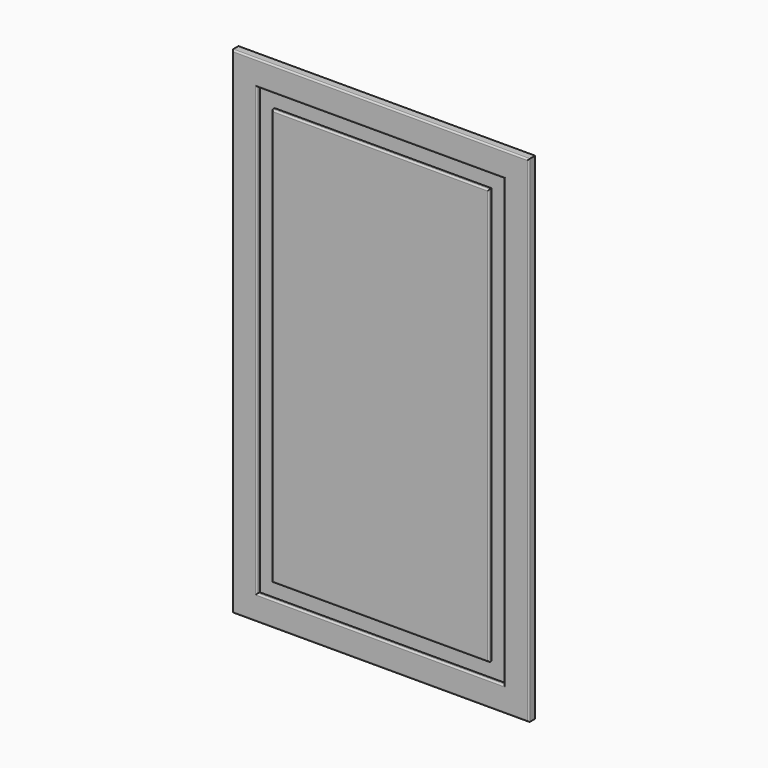
from build123d import *

# Parameters (mm, degrees)
F0_W      = 44.656470418
F0_H      = 33.8078811765
F1_DEPTH  = 16
F2_DEPTH  = 796
F3_DEPTH  = 196
F4_W      = 68.9578056335
F4_H      = 493.6993122101
F5_DEPTH  = 7
F6_DEPTH  = 9.7
F7_DEPTH  = 99.33
F8_DEPTH  = 99.33
F9_DEPTH  = 17.34
F10_DEPTH = 102.97
F11_W     = 35.2807044983
F11_H     = 492.0964837074
F12_DEPTH = 7
F13_DEPTH = 37.27
F14_DEPTH = 6.58
F15_DEPTH = 106.63
F16_DEPTH = 5.87
F17_DEPTH = 200
F18_DEPTH = 200
F19_DEPTH = 200
F20_DEPTH = 200
F21_DEPTH = 200
F22_DEPTH = 200
F23_DEPTH = 200
F24_DEPTH = 200
F25_DEPTH = 200
F26_R     = 3


with BuildPart() as f1:
    # F0 (on Front) → F1 (new body)
    with BuildSketch(Plane.XZ):
        with Locations((22.328235209, 16.9039405882)):
            Rectangle(F0_W, F0_H)
    extrude(amount=F1_DEPTH)

    # F2 (add): a face of the model
    f2_faces = [f1.faces().sort_by_distance(p)[0] for p in [
        (22.328235209, -8, 0),
    ]]
    extrude(f2_faces, amount=-F2_DEPTH)

    # F3 (add): a face of the model
    f3_faces = [f1.faces().sort_by_distance(p)[0] for p in [
        (0, -8, 398),
    ]]
    extrude(f3_faces, amount=-F3_DEPTH)

    # F4 (on face) → F5 (cut)
    with BuildSketch(Plane.XZ.offset(16)):
        with Locations((94.1769480705, 399.8196721077)):
            Rectangle(F4_W, F4_H)
    extrude(amount=-F5_DEPTH, mode=Mode.SUBTRACT)

    # F6 (cut): a face of the model
    f6_faces = [f1.faces().sort_by_distance(p)[0] for p in [
        (59.6980452538, -12.5, 399.8196721077),
    ]]
    extrude(f6_faces, amount=-F6_DEPTH, mode=Mode.SUBTRACT)

    # F7 (add): a face of the model
    f7_faces = [f1.faces().sort_by_distance(p)[0] for p in [
        (89.3269480705, -12.5, 646.6693282127),
    ]]
    extrude(f7_faces, amount=-F7_DEPTH)

    # F8 (cut): a face of the model
    f8_faces = [f1.faces().sort_by_distance(p)[0] for p in [
        (89.3269480705, -12.5, 646.6693282127),
    ]]
    extrude(f8_faces, amount=-F8_DEPTH, mode=Mode.SUBTRACT)

    # F9 (cut): a face of the model
    f9_faces = [f1.faces().sort_by_distance(p)[0] for p in [
        (128.6558508873, -12.5, 449.4846721077),
    ]]
    extrude(f9_faces, amount=-F9_DEPTH, mode=Mode.SUBTRACT)

    # F10 (cut): a face of the model
    f10_faces = [f1.faces().sort_by_distance(p)[0] for p in [
        (97.9969480705, -12.5, 152.9700160027),
    ]]
    extrude(f10_faces, amount=-F10_DEPTH, mode=Mode.SUBTRACT)

    # F11 (on face) → F12 (join)
    with BuildSketch(Plane.XZ.offset(9)):
        with Locations((91.7714834213, 432.6795041561)):
            Rectangle(F11_W, F11_H)
    extrude(amount=F12_DEPTH)

    # F13 (add): a face of the model
    f13_faces = [f1.faces().sort_by_distance(p)[0] for p in [
        (91.7714834213, -12.5, 678.7277460098),
    ]]
    extrude(f13_faces, amount=F13_DEPTH)

    # F14 (add): a face of the model
    f14_faces = [f1.faces().sort_by_distance(p)[0] for p in [
        (109.4118356705, -12.5, 451.3145041561),
    ]]
    extrude(f14_faces, amount=F14_DEPTH)

    # F15 (add): a face of the model
    f15_faces = [f1.faces().sort_by_distance(p)[0] for p in [
        (95.0614834213, -12.5, 186.6312623024),
    ]]
    extrude(f15_faces, amount=F15_DEPTH)

    # F16 (cut): a face of the model
    f16_faces = [f1.faces().sort_by_distance(p)[0] for p in [
        (74.1311311722, -12.5, 397.9995041561),
    ]]
    extrude(f16_faces, amount=-F16_DEPTH, mode=Mode.SUBTRACT)

    # F17 (add): a face of the model
    f17_faces = [f1.faces().sort_by_distance(p)[0] for p in [
        (196, -8, 398),
    ]]
    extrude(f17_faces, amount=F17_DEPTH)

    # F18 (cut): a face of the model
    f18_faces = [f1.faces().sort_by_distance(p)[0] for p in [
        (145.9958508873, -12.5, 397.9996721077),
    ]]
    extrude(f18_faces, amount=-F18_DEPTH, mode=Mode.SUBTRACT)

    # F19 (add): a face of the model
    f19_faces = [f1.faces().sort_by_distance(p)[0] for p in [
        (115.9918356705, -12.5, 397.9995041561),
    ]]
    extrude(f19_faces, amount=F19_DEPTH)

    # F20 (add): a face of the model
    f20_faces = [f1.faces().sort_by_distance(p)[0] for p in [
        (396, -8, 398),
    ]]
    extrude(f20_faces, amount=F20_DEPTH)

    # F21 (cut): a face of the model
    f21_faces = [f1.faces().sort_by_distance(p)[0] for p in [
        (345.9958508873, -12.5, 397.9996721077),
    ]]
    extrude(f21_faces, amount=-F21_DEPTH, mode=Mode.SUBTRACT)

    # F22 (add): a face of the model
    f22_faces = [f1.faces().sort_by_distance(p)[0] for p in [
        (315.9918356705, -12.5, 397.9995041561),
    ]]
    extrude(f22_faces, amount=F22_DEPTH)

    # F23 (add): a face of the model
    f23_faces = [f1.faces().sort_by_distance(p)[0] for p in [
        (298, -8, 796),
    ]]
    extrude(f23_faces, amount=F23_DEPTH)

    # F24 (cut): a face of the model
    f24_faces = [f1.faces().sort_by_distance(p)[0] for p in [
        (297.9969480705, -12.5, 745.9993282127),
    ]]
    extrude(f24_faces, amount=-F24_DEPTH, mode=Mode.SUBTRACT)

    # F25 (add): a face of the model
    f25_faces = [f1.faces().sort_by_distance(p)[0] for p in [
        (297.9964834213, -12.5, 715.9977460098),
    ]]
    extrude(f25_faces, amount=F25_DEPTH)

    # F26
    f26_edges = [f1.edges().sort_by_distance(p)[0] for p in [
        (0, -16, 498),
        (298, -16, 0),
        (596, -16, 498),
        (298, -16, 996),
        (297.996948, -16, 50.000016),
        (49.998045, -16, 497.999672),
        (297.996948, -16, 945.999328),
        (545.995851, -16, 497.999672),
        (80.001131, -16, 497.999504),
        (297.996483, -16, 80.001262),
        (515.991836, -16, 497.999504),
        (297.996483, -16, 915.997746),
    ]]
    fillet(f26_edges, radius=F26_R)


solid = f1.part
